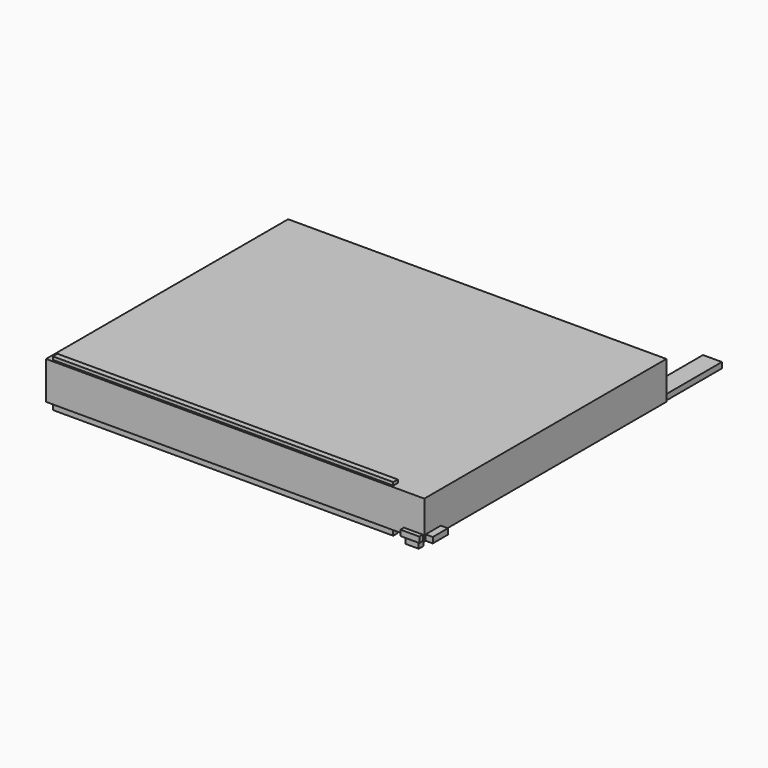
from build123d import *

# Parameters (mm, degrees)
F0_W     = 1800
F0_H     = 250
F1_DEPTH = 30
F2_W     = 100
F2_H     = 2000
F3_DEPTH = 30
F4_W     = 70
F4_H     = 230
F5_DEPTH = 30
F6_W     = 2000
F6_H     = 1600
F7_DEPTH = 200
F8_W     = 1800
F8_H     = 100
F9_DEPTH = 30


with BuildPart() as f1:
    # F0 (on Front) → F1 (new body)
    with BuildSketch(Plane.XZ):
        with Locations((-1014.264105, 91.703627)):
            Rectangle(F0_W, F0_H)
    extrude(amount=F1_DEPTH)


with BuildPart() as f3:
    # F2 (on Top) → F3 (new body)
    with BuildSketch(Plane.XY):
        with Locations((0.735886, 936.582662)):
            Rectangle(F2_W, F2_H)
    extrude(amount=F3_DEPTH)


with BuildPart() as f5:
    # F4 (on Front) → F5 (new body)
    with BuildSketch(Plane.XZ):
        with Locations((-14.264114, 65.01008)):
            Rectangle(F4_W, F4_H)
    extrude(amount=F5_DEPTH)


with BuildPart() as f7:
    # F6 (on Top) → F7 (new body)
    with BuildSketch(Plane.XY):
        with Locations((-941.663302, 759.627017)):
            Rectangle(F6_W, F6_H)
    extrude(amount=F7_DEPTH)


with BuildPart() as f9:
    # F8 (on Top) → F9 (new body)
    with BuildSketch(Plane.XY):
        with Locations((-803.921366, 18.518145)):
            Rectangle(F8_W, F8_H)
    extrude(amount=F9_DEPTH)


solid = Compound([f1.part, f3.part, f5.part, f7.part, f9.part])
